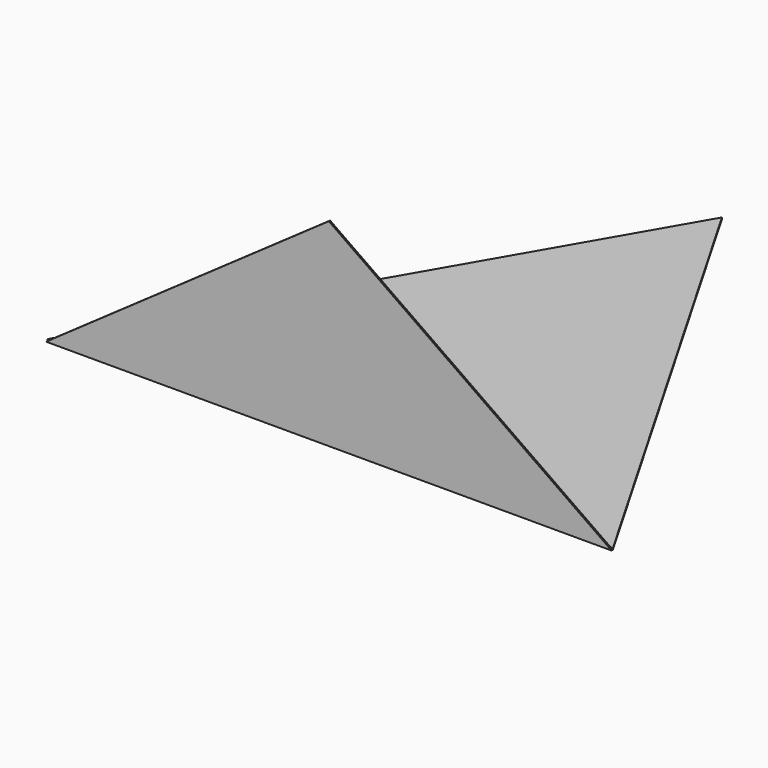
from build123d import *

# Parameters (mm, degrees)
F1_DEPTH = 2
F3_DEPTH = 2


with BuildPart() as f1:
    # F0 (on Front) → F1 (new body)
    with BuildSketch(Plane.XZ):
        Polygon((-350, 0), (0, 0), (350, 0), (0, 245.072638), align=None)
    extrude(amount=F1_DEPTH)

    # F2 (on Top) → F3 (join)
    with BuildSketch(Plane.XY):
        Polygon((-350, 0), (350, 0), (0, 606.217783), align=None)
    extrude(amount=F3_DEPTH)


solid = f1.part
